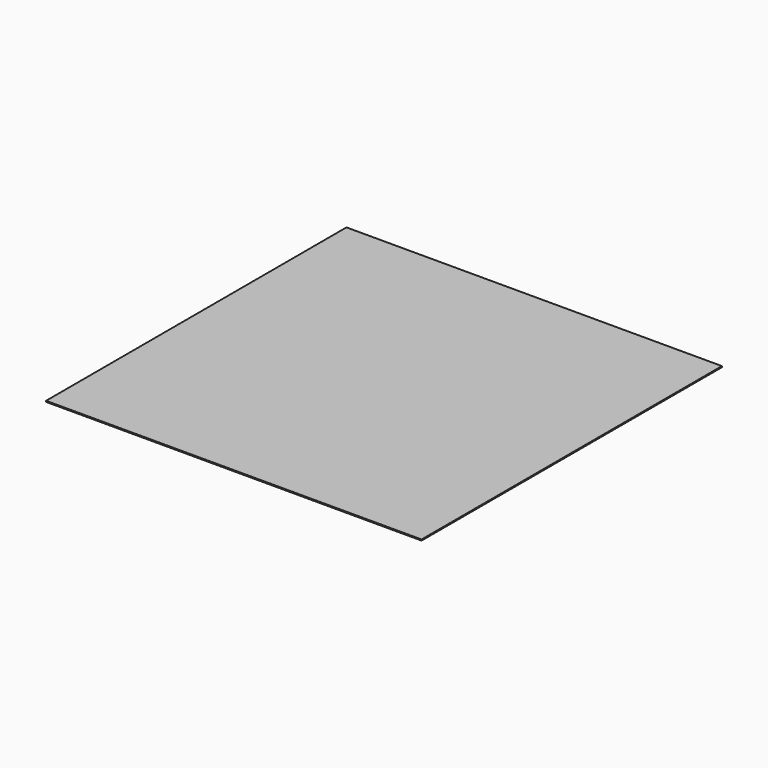
from build123d import *

# Parameters (mm, degrees)
BOX_W     = 360
BOX_H     = 360
BOX_DEPTH = 1


with BuildPart() as part:
    # Box → Box (new body)
    with BuildSketch(Plane.XY):
        with Locations((180, 180)):
            Rectangle(BOX_W, BOX_H)
    extrude(amount=BOX_DEPTH)


solid = part.part
